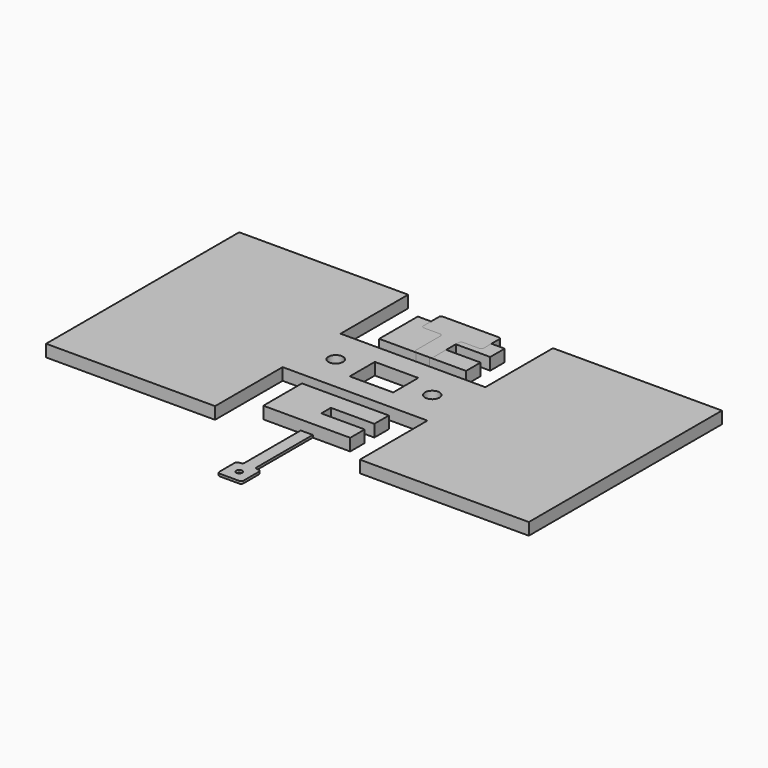
from build123d import *

# Parameters (mm, degrees)
F0_R     = 3.81
F0_W     = 22.86
F0_H     = 16.51
F1_DEPTH = 6.35
F3_DEPTH = 6.35
F2_R     = 1.5875
F4_DEPTH = 1.27


with BuildPart() as f1:
    # F0 (on Top) → F1 (new body)
    with BuildSketch(Plane.XY):
        Polygon((127, -63.5), (127, 63.5), (38.1, 63.5), (38.1, 57.15), (38.1, 19.05), (-38.1, 19.05), (-38.1, 57.15), (-38.1, 63.5), (-127, 63.5), (-127, -63.5), (-38.1, -63.5), (-38.1, -57.15), (-38.1, -19.05), (38.1, -19.05), (38.1, -57.15), (38.1, -63.5), align=None)
        with Locations((-25.4, 0)):
            Circle(F0_R, mode=Mode.SUBTRACT)
        Rectangle(F0_W, F0_H, mode=Mode.SUBTRACT)
        with Locations((25.4, 0)):
            Circle(F0_R, mode=Mode.SUBTRACT)
        Polygon((22.86, -34.925), (22.86, -25.4), (-22.86, -25.4), (-22.86, -50.8), (22.86, -50.8), (22.86, -41.275), (0, -41.275), (0, -34.925), align=None)
        Polygon((22.86, 34.925), (0, 34.925), (0, 41.275), (22.86, 41.275), (22.86, 50.8), (-22.86, 50.8), (-22.86, 25.4), (22.86, 25.4), align=None)
    extrude(amount=F1_DEPTH)


with BuildPart() as f3:
    # F2 (on Top) → F3 (new body)
    with BuildSketch(Plane.XY):
        with BuildLine():
            Line((6.0325, 44.45), (14.605, 44.45))
            ThreePointArc((14.605, 44.45), (15.503026, 44.821974), (15.875, 45.72))
            Line((15.875, 45.72), (15.875, 55.88))
            ThreePointArc((15.875, 55.88), (15.503026, 56.778026), (14.605, 57.15))
            Line((14.605, 57.15), (-14.605, 57.15))
            ThreePointArc((-14.605, 57.15), (-15.503026, 56.778026), (-15.875, 55.88))
            Line((-15.875, 55.88), (-15.875, 45.72))
            ThreePointArc((-15.875, 45.72), (-15.503026, 44.821974), (-14.605, 44.45))
            Line((-14.605, 44.45), (-6.0325, 44.45))
            ThreePointArc((-6.0325, 44.45), (-5.134474, 44.078026), (-4.7625, 43.18))
            Line((-4.7625, 43.18), (-4.7625, 26.67))
            ThreePointArc((-4.7625, 26.67), (-4.390526, 25.771974), (-3.4925, 25.4))
            Line((-3.4925, 25.4), (3.4925, 25.4))
            ThreePointArc((3.4925, 25.4), (4.390526, 25.771974), (4.7625, 26.67))
            Line((4.7625, 26.67), (4.7625, 43.18))
            ThreePointArc((4.7625, 43.18), (5.134474, 44.078026), (6.0325, 44.45))
        make_face()
    extrude(amount=F3_DEPTH)


with BuildPart() as f4:
    # F2 (on Top) → F4 (new body)
    with BuildSketch(Plane.XY):
        with BuildLine():
            ThreePointArc((3.175, -26.67), (2.803026, -25.771974), (1.905, -25.4))
            Line((1.905, -25.4), (-1.905, -25.4))
            ThreePointArc((-1.905, -25.4), (-2.803026, -25.771974), (-3.175, -26.67))
            Line((-3.175, -26.67), (-3.175, -87.63))
            ThreePointArc((-3.175, -87.63), (-3.546974, -88.528026), (-4.445, -88.9))
            Line((-4.445, -88.9), (-5.08, -88.9))
            ThreePointArc((-5.08, -88.9), (-5.978026, -89.271974), (-6.35, -90.17))
            Line((-6.35, -90.17), (-6.35, -100.33))
            ThreePointArc((-6.35, -100.33), (-5.978026, -101.228026), (-5.08, -101.6))
            Line((-5.08, -101.6), (5.08, -101.6))
            ThreePointArc((5.08, -101.6), (5.978026, -101.228026), (6.35, -100.33))
            Line((6.35, -100.33), (6.35, -90.17))
            ThreePointArc((6.35, -90.17), (5.978026, -89.271974), (5.08, -88.9))
            Line((5.08, -88.9), (4.445, -88.9))
            ThreePointArc((4.445, -88.9), (3.546974, -88.528026), (3.175, -87.63))
            Line((3.175, -87.63), (3.175, -26.67))
        make_face()
        with Locations((0, -95.25)):
            Circle(F2_R, mode=Mode.SUBTRACT)
    extrude(amount=F4_DEPTH)


solid = Compound([f1.part, f3.part, f4.part])
